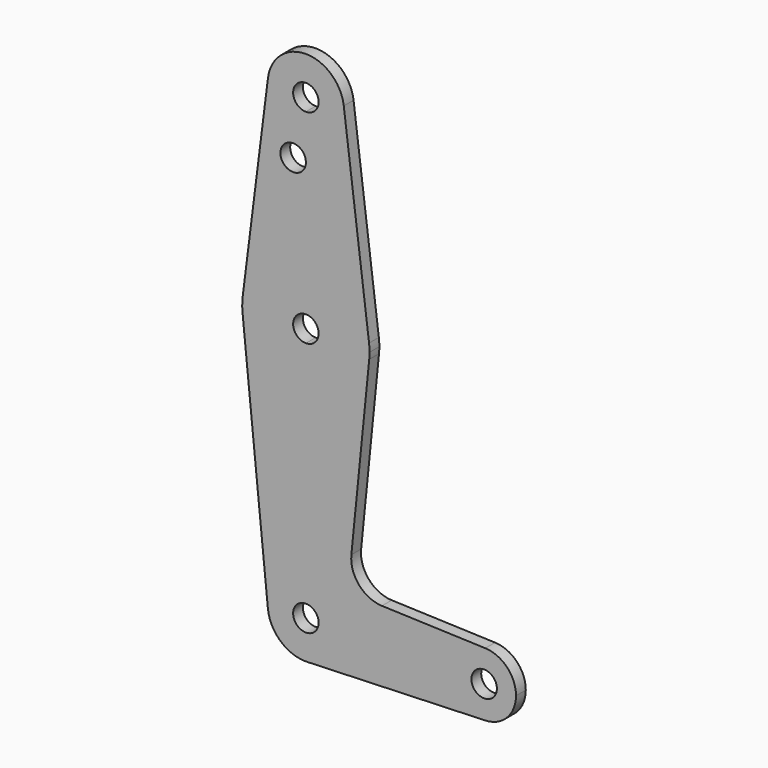
from build123d import *

# Parameters (mm, degrees)
F0_R     = 3.175
F1_DEPTH = 3.048


with BuildPart() as f1:
    # F0 (on Front) → F1 (new body)
    with BuildSketch(Plane.XZ):
        with BuildLine():
            ThreePointArc((-58.3318699099, 41.275), (-51.5966778191, 44.0648079092), (-48.8068699099, 50.8))
            ThreePointArc((-48.8068699099, 50.8), (-48.8255650157, 51.396483242), (-48.8815769457, 51.990625))
            ThreePointArc((-48.8815769457, 51.990625), (-58.3318699099, 60.325), (-67.7821628741, 51.990625))
            ThreePointArc((-67.7821628741, 51.990625), (-65.4756199099, 44.4998046905), (-58.3318699099, 41.275))
        make_face()
        with BuildLine():
            ThreePointArc((-55.1568699099, 50.8), (-56.0868058796, 48.5549359697), (-58.3318699099, 47.625))
            ThreePointArc((-58.3318699099, 47.625), (-60.5769339402, 53.0450640303), (-55.1568699099, 50.8))
        make_face(mode=Mode.SUBTRACT)
        with BuildLine():
            ThreePointArc((-48.8815769457, 51.990625), (-48.8255650157, 51.396483242), (-48.8068699099, 50.8))
            ThreePointArc((-48.8068699099, 50.8), (-51.5966778191, 44.0648079092), (-58.3318699099, 41.275))
            Line((-58.3318699099, 41.275), (-58.3318699099, 36.5252))
            Line((-58.3318699099, 36.5252), (-58.3318699099, 15.875))
            ThreePointArc((-58.3318699099, 15.875), (-47.8315443941, 11.90625), (-42.5813816362, 1.984375))
            Line((-42.5813816362, 1.984375), (-48.8815769457, 51.990625))
        make_face()
        with BuildLine():
            Line((-58.3318699099, 36.5252), (-58.3318699099, 41.275))
            ThreePointArc((-58.3318699099, 41.275), (-65.4756199099, 44.4998046905), (-67.7821628741, 51.990625))
            Line((-67.7821628741, 51.990625), (-74.0823581836, 1.984375))
            ThreePointArc((-74.0823581836, 1.984375), (-68.8321954257, 11.90625), (-58.3318699099, 15.875))
            Line((-58.3318699099, 15.875), (-58.3318699099, 36.5252))
        make_face()
        with Locations((-61.5068699099, 36.5252)):
            Circle(F0_R, mode=Mode.SUBTRACT)
        with BuildLine():
            ThreePointArc((-42.4568699099, 0), (-42.4880284195, 0.9941387366), (-42.5813816362, 1.984375))
            ThreePointArc((-42.5813816362, 1.984375), (-47.8315443941, 11.90625), (-58.3318699099, 15.875))
            Line((-58.3318699099, 15.875), (-58.3318699099, 3.175))
            ThreePointArc((-58.3318699099, 3.175), (-56.0868058796, 2.2450640303), (-55.1568699099, 0))
            ThreePointArc((-55.1568699099, 0), (-56.0868058796, -2.2450640303), (-58.3318699099, -3.175))
            Line((-58.3318699099, -3.175), (-58.3318699099, -15.875))
            ThreePointArc((-58.3318699099, -15.875), (-47.682596167, -11.7732150983), (-42.5364443458, -1.5875))
            ThreePointArc((-42.5364443458, -1.5875), (-42.4767759993, -0.7947465541), (-42.4568699099, 0))
        make_face()
        with BuildLine():
            ThreePointArc((-58.3318699099, 15.875), (-68.8321954257, 11.90625), (-74.0823581836, 1.984375))
            ThreePointArc((-74.0823581836, 1.984375), (-74.2056137253, 0.1997054867), (-74.127295474, -1.5875))
            ThreePointArc((-74.127295474, -1.5875), (-68.9811436527, -11.7732150983), (-58.3318699099, -15.875))
            Line((-58.3318699099, -15.875), (-58.3318699099, -3.175))
            ThreePointArc((-58.3318699099, -3.175), (-61.5068699099, 0), (-58.3318699099, 3.175))
            Line((-58.3318699099, 3.175), (-58.3318699099, 15.875))
        make_face()
        with BuildLine():
            ThreePointArc((-58.3318699099, -15.875), (-68.9811436527, -11.7732150983), (-74.127295474, -1.5875))
            Line((-74.127295474, -1.5875), (-67.8091252483, -64.4525))
            ThreePointArc((-67.8091252483, -64.4525), (-65.3957989688, -57.1104357543), (-58.3318699099, -53.975))
            Line((-58.3318699099, -53.975), (-58.3318699099, -15.875))
        make_face()
        with BuildLine():
            Line((-46.9910340414, -45.9101078455), (-42.5364443458, -1.5875))
            ThreePointArc((-42.5364443458, -1.5875), (-47.682596167, -11.7732150983), (-58.3318699099, -15.875))
            Line((-58.3318699099, -15.875), (-58.3318699099, -53.975))
            ThreePointArc((-58.3318699099, -53.975), (-51.5966778191, -56.7648079092), (-48.8068699099, -63.5))
            Line((-48.8068699099, -63.5), (-21.8193699099, -63.5))
            ThreePointArc((-21.8193699099, -63.5), (-19.3937803946, -57.7883672161), (-13.5994646353, -55.5675253854))
            Line((-13.5994646353, -55.5675253854), (-39.3635420419, -54.6502944194))
            ThreePointArc((-39.3635420419, -54.6502944194), (-45.0706659274, -51.9325371041), (-46.9910340414, -45.9101078455))
        make_face()
        with BuildLine():
            ThreePointArc((-58.3318699099, -53.975), (-65.3957989688, -57.1104357543), (-67.8091252483, -64.4525))
            ThreePointArc((-67.8091252483, -64.4525), (-64.5147150285, -70.7455538946), (-57.781810245, -73.0091040254))
            ThreePointArc((-57.781810245, -73.0091040254), (-51.4049317945, -70.0378248176), (-48.8068699099, -63.5))
            Line((-48.8068699099, -63.5), (-55.1568699099, -63.5))
            ThreePointArc((-55.1568699099, -63.5), (-60.5769339402, -65.7450640303), (-58.3318699099, -60.325))
            Line((-58.3318699099, -60.325), (-58.3318699099, -53.975))
        make_face()
        with BuildLine():
            ThreePointArc((-48.8068699099, -63.5), (-51.4049317945, -70.0378248176), (-57.781810245, -73.0091040254))
            Line((-57.781810245, -73.0091040254), (-13.5988035576, -71.4324510519))
            ThreePointArc((-13.5988035576, -71.4324510519), (-19.393542391, -69.2118624555), (-21.8193699099, -63.5))
            Line((-21.8193699099, -63.5), (-48.8068699099, -63.5))
        make_face()
        with BuildLine():
            ThreePointArc((-21.8193699099, -63.5), (-19.393542391, -69.2118624555), (-13.5988035576, -71.4324510519))
            ThreePointArc((-13.5988035576, -71.4324510519), (-8.1700074544, -69.0116724811), (-5.9443699099, -63.5))
            ThreePointArc((-5.9443699099, -63.5), (-8.170237126, -57.9880895153), (-13.5994646353, -55.5675253854))
            ThreePointArc((-13.5994646353, -55.5675253854), (-19.3937803946, -57.7883672161), (-21.8193699099, -63.5))
        make_face()
        with BuildLine():
            ThreePointArc((-10.7068699099, -63.5), (-13.8818699099, -66.675), (-17.0568699099, -63.5))
            ThreePointArc((-17.0568699099, -63.5), (-13.8818699099, -60.325), (-10.7068699099, -63.5))
        make_face(mode=Mode.SUBTRACT)
        with BuildLine():
            ThreePointArc((-48.8068699099, -63.5), (-51.5966778191, -56.7648079092), (-58.3318699099, -53.975))
            Line((-58.3318699099, -53.975), (-58.3318699099, -60.325))
            ThreePointArc((-58.3318699099, -60.325), (-56.0868058796, -61.2549359697), (-55.1568699099, -63.5))
            Line((-55.1568699099, -63.5), (-48.8068699099, -63.5))
        make_face()
    extrude(amount=F1_DEPTH)


solid = f1.part
